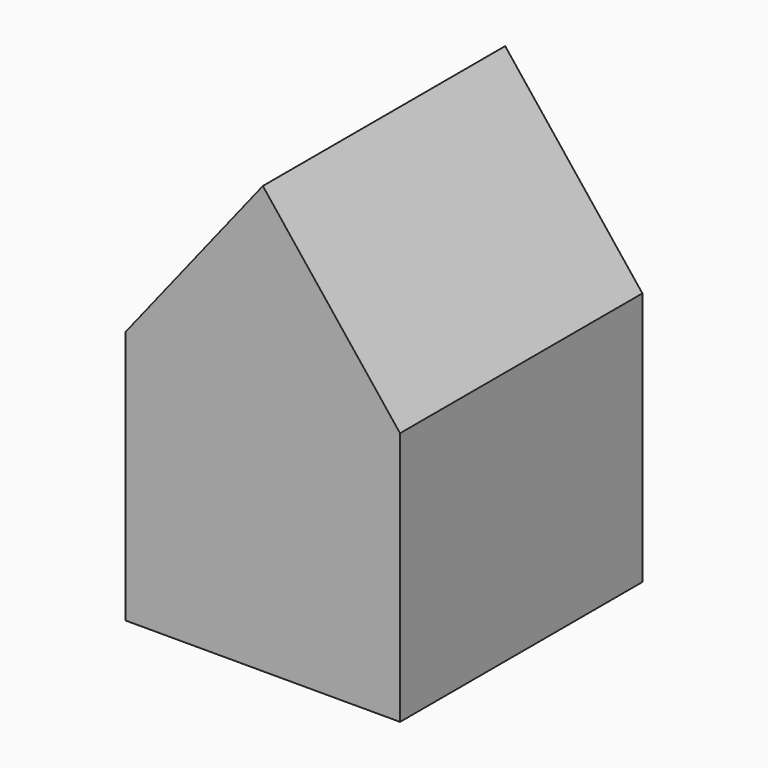
from build123d import *

# Parameters (mm, degrees)
F0_W     = 92.0496
F0_H     = 85.240435
F2_DEPTH = 101.6
F1_W     = 21.440845
F1_H     = 19.349056
F1_W_2   = 20.917898
F1_H_2   = 19.872003
F1_W_3   = 27.716208
F1_H_3   = 48.895583
F3_DEPTH = 17.272


with BuildPart() as f2:
    # F0 (on Front) → F2 (new body)
    with BuildSketch(Plane.XZ):
        Polygon((1.30194, 94.392009), (-44.72286, 36.344852), (47.32674, 36.344852), align=None)
        with Locations((1.30194, -6.275365)):
            Rectangle(F0_W, F0_H)
    extrude(amount=F2_DEPTH)

    # F1 (on Front) → F3 (cut)
    with BuildSketch(Plane.XZ):
        with Locations((28.762107, 14.642532)):
            Rectangle(F1_W, F1_H)
        with Locations((-27.977687, 14.904006)):
            Rectangle(F1_W_2, F1_H_2)
        with Locations((-0.075163, -24.447791)):
            Rectangle(F1_W_3, F1_H_3)
    extrude(amount=F3_DEPTH, mode=Mode.SUBTRACT)


solid = f2.part
